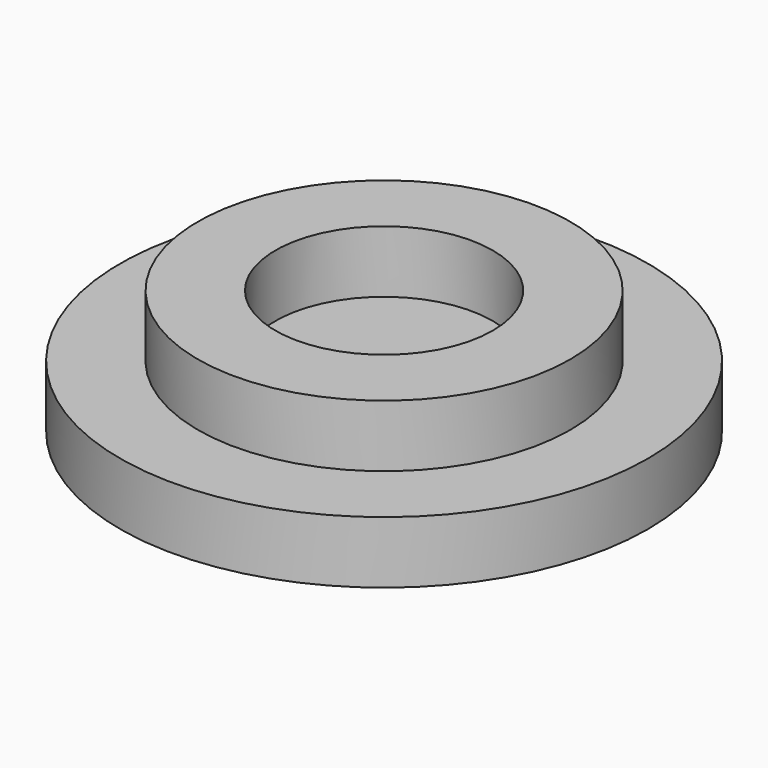
from build123d import *

# Parameters (mm, degrees)
F0_R     = 8.5
F3_DEPTH = 2
F1_R     = 6
F4_DEPTH = 2
F2_R     = 3.5
F5_DEPTH = 25


with BuildPart() as f3:
    # F0 (on Top) → F3 (new body)
    with BuildSketch(Plane.XY):
        Circle(F0_R)
    extrude(amount=-F3_DEPTH)


with BuildPart() as f4:
    # F1 (on Top) → F4 (new body)
    with BuildSketch(Plane.XY):
        Circle(F1_R)
    extrude(amount=F4_DEPTH)

    # F2 (on Top) → F5 (cut)
    with BuildSketch(Plane.XY):
        Circle(F2_R)
    extrude(amount=F5_DEPTH, mode=Mode.SUBTRACT)


solid = Compound([f3.part, f4.part])
